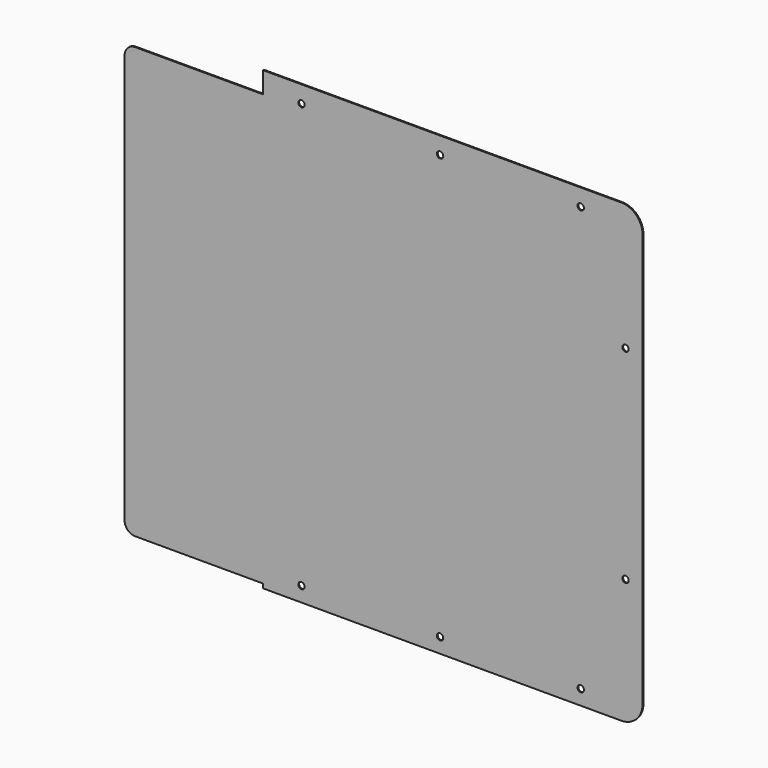
from build123d import *

# Parameters (mm, degrees)
F0_R     = 1.5
F1_DEPTH = 0.5
F2_R     = 10
F3_R     = 5


with BuildPart() as f1:
    # F0 (on Front) → F1 (new body)
    with BuildSketch(Plane.XZ):
        Polygon((-178, 0), (0, 0), (0, 214), (-178, 214), (-178, 204), (-243, 204), (-243, 2), (-178, 2), align=None)
        with Locations((-160, 7)):
            Circle(F0_R, mode=Mode.SUBTRACT)
        with Locations((-95, 7)):
            Circle(F0_R, mode=Mode.SUBTRACT)
        with Locations((-29, 7)):
            Circle(F0_R, mode=Mode.SUBTRACT)
        with Locations((-8, 59)):
            Circle(F0_R, mode=Mode.SUBTRACT)
        with Locations((-160, 206)):
            Circle(F0_R, mode=Mode.SUBTRACT)
        with Locations((-8, 154.5)):
            Circle(F0_R, mode=Mode.SUBTRACT)
        with Locations((-95, 206)):
            Circle(F0_R, mode=Mode.SUBTRACT)
        with Locations((-29, 206)):
            Circle(F0_R, mode=Mode.SUBTRACT)
    extrude(amount=F1_DEPTH)

    # F2
    f2_edges = [f1.edges().sort_by_distance(p)[0] for p in [
        (0, -0.25, 214),
        (0, -0.25, 0),
    ]]
    fillet(f2_edges, radius=F2_R)

    # F3
    f3_edges = [f1.edges().sort_by_distance(p)[0] for p in [
        (-243, -0.25, 204),
        (-243, -0.25, 2),
    ]]
    fillet(f3_edges, radius=F3_R)


solid = f1.part
